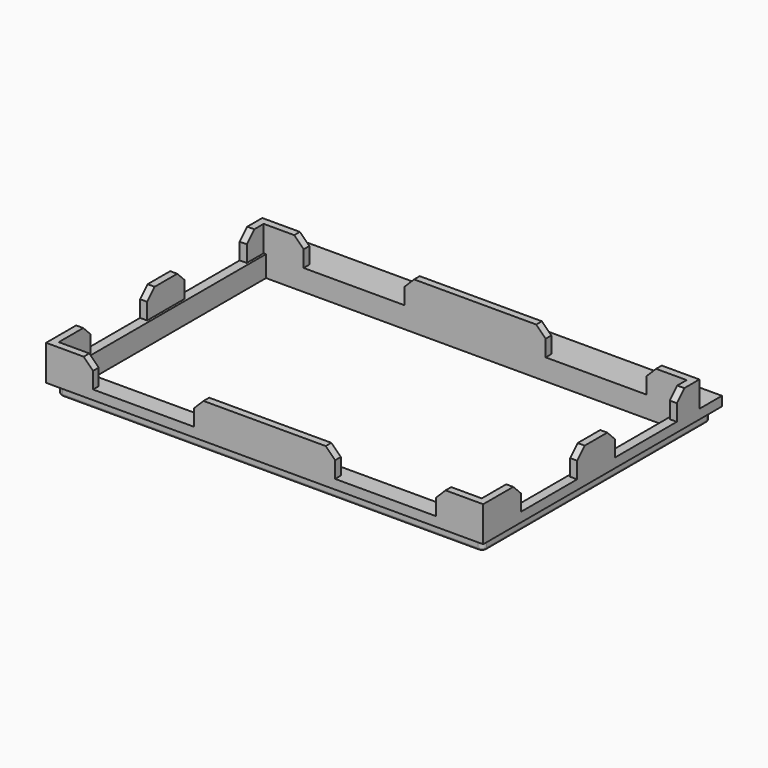
from build123d import *

# Parameters (mm, degrees)
BOX035_W               = 60
BOX035_H               = 3
BOX035_DEPTH           = 11
BOX034_W               = 200
BOX034_H               = 30
BOX034_DEPTH           = 20
BOX033_W               = 60
BOX033_H               = 3
BOX033_DEPTH           = 11
BOX025_W               = 3
BOX025_H               = 20
BOX025_DEPTH           = 11
BOX026_W               = 3
BOX026_H               = 20
BOX026_DEPTH           = 11
BOX024_W               = 30
BOX024_H               = 20
BOX024_DEPTH           = 11
BOX023_W               = 20
BOX023_H               = 20
BOX023_DEPTH           = 11
CUT010_PLACEMENT_ANGLE = 180
BOX032_W               = 30
BOX032_H               = 20
BOX032_DEPTH           = 11
BOX031_W               = 20
BOX031_H               = 20
BOX031_DEPTH           = 11
CUT013_PLACEMENT_ANGLE = 180
BOX030_W               = 30
BOX030_H               = 20
BOX030_DEPTH           = 11
BOX029_W               = 20
BOX029_H               = 20
BOX029_DEPTH           = 11
CUT012_PLACEMENT_ANGLE = 180
BOX022_W               = 30
BOX022_H               = 20
BOX022_DEPTH           = 11
BOX021_W               = 20
BOX021_H               = 20
BOX021_DEPTH           = 11
CHAMFER006_SIZE        = 4
BOX018_W               = 178
BOX018_H               = 104
BOX018_DEPTH           = 30
BOX019_W               = 181
BOX019_H               = 121
BOX019_DEPTH           = 5
BOX017_W               = 186
BOX017_H               = 127
BOX017_DEPTH           = 4
FILLET008_R            = 2
FILLET009_R            = 1


with BuildPart() as cube032:
    # Box035 → Box035 (new body)
    with BuildSketch(Plane(origin=(63, 0, 4), x_dir=(1, 0, 0), z_dir=(0, 0, 1))):
        with Locations((30, 1.5)):
            Rectangle(BOX035_W, BOX035_H)
    extrude(amount=BOX035_DEPTH)


with BuildPart() as cube031:
    # Box034 → Box034 (new body)
    with BuildSketch(Plane(origin=(-10, 73, -5), x_dir=(1, 0, 0), z_dir=(0, 0, 1))):
        with Locations((100, 15)):
            Rectangle(BOX034_W, BOX034_H)
    extrude(amount=BOX034_DEPTH)


with BuildPart() as cube030:
    # Box033 → Box033 (new body)
    with BuildSketch(Plane(origin=(63, 112, 4), x_dir=(1, 0, 0), z_dir=(0, 0, 1))):
        with Locations((30, 1.5)):
            Rectangle(BOX033_W, BOX033_H)
    extrude(amount=BOX033_DEPTH)


with BuildPart() as cube022:
    # Box025 → Box025 (new body)
    with BuildSketch(Plane(origin=(0, 50, 4), x_dir=(1, 0, 0), z_dir=(0, 0, 1))):
        with Locations((1.5, 10)):
            Rectangle(BOX025_W, BOX025_H)
    extrude(amount=BOX025_DEPTH)


with BuildPart() as cube023:
    # Box026 → Box026 (new body)
    with BuildSketch(Plane(origin=(183, 50, 4), x_dir=(1, 0, 0), z_dir=(0, 0, 1))):
        with Locations((1.5, 10)):
            Rectangle(BOX026_W, BOX026_H)
    extrude(amount=BOX026_DEPTH)


with BuildPart() as cube021:
    # Box024 → Box024 (new body)
    with BuildSketch(Plane(origin=(3, 3, 0), x_dir=(1, 0, 0), z_dir=(0, 0, 1))):
        with Locations((15, 10)):
            Rectangle(BOX024_W, BOX024_H)
    extrude(amount=BOX024_DEPTH)


with BuildPart() as cut010:
    # Box023 → Box023 (new body)
    with BuildSketch(Plane.XY):
        with Locations((10, 10)):
            Rectangle(BOX023_W, BOX023_H)
    extrude(amount=BOX023_DEPTH)

    # Cut010: cut Cube021
    add(cube021.part, mode=Mode.SUBTRACT)


with BuildPart() as cut010_1:
    # Cut010 placement: moved
    add(cut010.part.moved(Location((186, 0, 15))).rotate(Axis((186, 0, 15), (0, 1, 0)), CUT010_PLACEMENT_ANGLE))


with BuildPart() as cube029:
    # Box032 → Box032 (new body)
    with BuildSketch(Plane(origin=(3, 3, 0), x_dir=(1, 0, 0), z_dir=(0, 0, 1))):
        with Locations((15, 10)):
            Rectangle(BOX032_W, BOX032_H)
    extrude(amount=BOX032_DEPTH)


with BuildPart() as cut013:
    # Box031 → Box031 (new body)
    with BuildSketch(Plane.XY):
        with Locations((10, 10)):
            Rectangle(BOX031_W, BOX031_H)
    extrude(amount=BOX031_DEPTH)

    # Cut013: cut Cube029
    add(cube029.part, mode=Mode.SUBTRACT)


with BuildPart() as cut013_1:
    # Cut013 placement: moved
    add(cut013.part.moved(Location((186, 115, 4))).rotate(Axis((186, 115, 4), (0, 0, 1)), CUT013_PLACEMENT_ANGLE))


with BuildPart() as cube027:
    # Box030 → Box030 (new body)
    with BuildSketch(Plane(origin=(3, 3, 0), x_dir=(1, 0, 0), z_dir=(0, 0, 1))):
        with Locations((15, 10)):
            Rectangle(BOX030_W, BOX030_H)
    extrude(amount=BOX030_DEPTH)


with BuildPart() as cut012:
    # Box029 → Box029 (new body)
    with BuildSketch(Plane.XY):
        with Locations((10, 10)):
            Rectangle(BOX029_W, BOX029_H)
    extrude(amount=BOX029_DEPTH)

    # Cut012: cut Cube027
    add(cube027.part, mode=Mode.SUBTRACT)


with BuildPart() as cut012_1:
    # Cut012 placement: moved
    add(cut012.part.moved(Location((0, 115, 15))).rotate(Axis((0, 115, 15), (1, 0, 0)), CUT012_PLACEMENT_ANGLE))


with BuildPart() as cube019:
    # Box022 → Box022 (new body)
    with BuildSketch(Plane(origin=(3, 3, 0), x_dir=(1, 0, 0), z_dir=(0, 0, 1))):
        with Locations((15, 10)):
            Rectangle(BOX022_W, BOX022_H)
    extrude(amount=BOX022_DEPTH)


with BuildPart() as chamfer006:
    # Box021 → Box021 (new body)
    with BuildSketch(Plane.XY):
        with Locations((10, 10)):
            Rectangle(BOX021_W, BOX021_H)
    extrude(amount=BOX021_DEPTH)

    # Cut009: cut Cube019
    add(cube019.part, mode=Mode.SUBTRACT)


with BuildPart() as chamfer006_1:
    # Cut009 placement: moved
    add(chamfer006.part.moved(Location((0, 0, 4))))

    # Fusion014: union Cube022, Cube023, Cut010, Cut013, Cut012
    add(cube022.part)
    add(cube023.part)
    add(cut010_1.part)
    add(cut013_1.part)
    add(cut012_1.part)

    # Fusion015: union Cube030
    add(cube030.part)

    # Cut014: cut Cube031
    add(cube031.part, mode=Mode.SUBTRACT)

    # Fusion016: union Cube032
    add(cube032.part)

    # Chamfer006
    chamfer006_edges = [chamfer006_1.edges().sort_by_distance(p)[0] for p in [
        (184.5, 20, 15),
        (166, 1.5, 15),
        (63, 113.5, 15),
        (123, 113.5, 15),
        (1.5, 103, 15),
        (20, 113.5, 15),
        (184.5, 50, 15),
        (184.5, 70, 15),
        (184.5, 103, 15),
        (166, 113.5, 15),
        (63, 1.5, 15),
        (123, 1.5, 15),
        (1.5, 50, 15),
        (1.5, 70, 15),
        (1.5, 20, 15),
        (20, 1.5, 15),
    ]]
    chamfer(chamfer006_edges, length=CHAMFER006_SIZE)


with BuildPart() as cutout:
    # Box018 → Box018 (new body)
    with BuildSketch(Plane(origin=(4, 8, -25), x_dir=(1, 0, 0), z_dir=(0, 0, 1))):
        with Locations((89, 52)):
            Rectangle(BOX018_W, BOX018_H)
    extrude(amount=BOX018_DEPTH)


with BuildPart() as cube016:
    # Box019 → Box019 (new body)
    with BuildSketch(Plane(origin=(2.5, 3, -5), x_dir=(1, 0, 0), z_dir=(0, 0, 1))):
        with Locations((90.5, 60.5)):
            Rectangle(BOX019_W, BOX019_H)
    extrude(amount=BOX019_DEPTH)


with BuildPart() as fascia_complete:
    # Box017 → Box017 (new body)
    with BuildSketch(Plane.XY):
        with Locations((93, 63.5)):
            Rectangle(BOX017_W, BOX017_H)
    extrude(amount=BOX017_DEPTH)

    # Fusion007: union Cube016
    add(cube016.part)

    # Cut007: cut Cutout
    add(cutout.part, mode=Mode.SUBTRACT)

    # Fillet008
    fillet008_edges = [fascia_complete.edges().sort_by_distance(p)[0] for p in [
        (183.5, 124, -2.5),
        (2.5, 124, -2.5),
        (2.5, 3, -2.5),
        (183.5, 3, -2.5),
    ]]
    fillet(fillet008_edges, radius=FILLET008_R)

    # Fillet009
    fillet009_edges = [fascia_complete.edges().sort_by_distance(p)[0] for p in [
        (93, 124, -5),
        (3.085786, 123.414214, -5),
        (182.914214, 123.414214, -5),
        (2.5, 63.5, -5),
        (183.5, 63.5, -5),
        (3.085786, 3.585786, -5),
        (182.914214, 3.585786, -5),
        (93, 3, -5),
    ]]
    fillet(fillet009_edges, radius=FILLET009_R)

    # Fusion017: union Chamfer006
    add(chamfer006_1.part)


solid = fascia_complete.part
